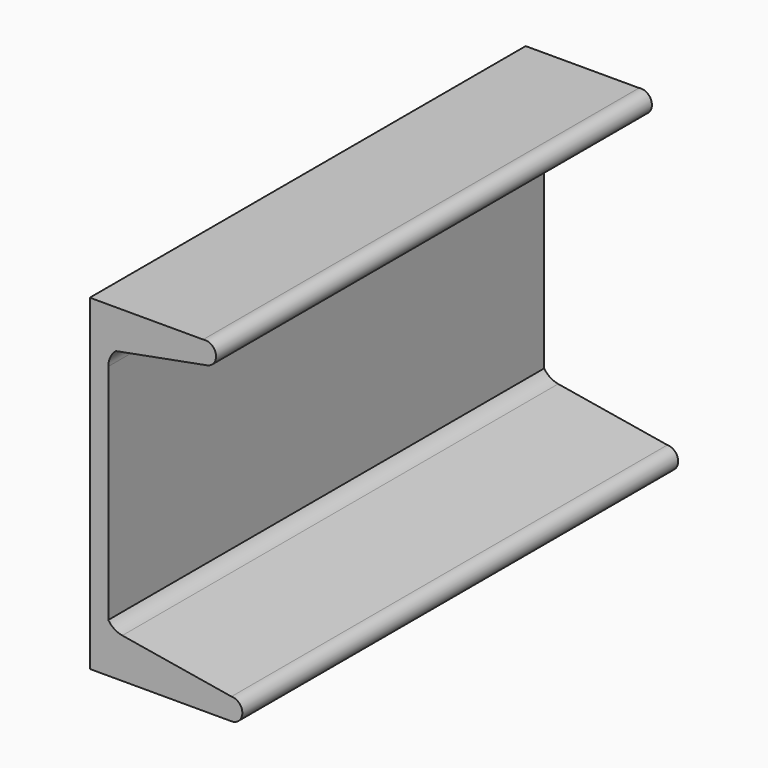
from build123d import *

# Parameters (mm, degrees)
F1_DEPTH = 63.5


with BuildPart() as f1:
    # F0 (on Front) → F1 (new body, symmetric)
    with BuildSketch(Plane.XZ):
        with BuildLine():
            Line((-38.852121, 76.2), (-38.852121, 0))
            Line((-38.852121, 0), (-5.832121, 0))
            ThreePointArc((-5.832121, 0), (-3.292121, 2.54), (-5.832121, 5.08))
            Line((-5.832121, 5.08), (-31.274684, 9.333155))
            ThreePointArc((-31.274684, 9.333155), (-33.127235, 10.056062), (-34.534121, 11.461485))
            Line((-34.534121, 11.461485), (-34.534121, 63.479383))
            ThreePointArc((-34.534121, 63.479383), (-34.072711, 65.544346), (-32.776249, 67.216516))
            Line((-32.776249, 67.216516), (-11.493637, 71.207009))
            ThreePointArc((-11.493637, 71.207009), (-9.465235, 74.171598), (-12.429824, 76.2))
            Line((-12.429824, 76.2), (-38.852121, 76.2))
        make_face()
    extrude(amount=F1_DEPTH, both=True)


solid = f1.part
